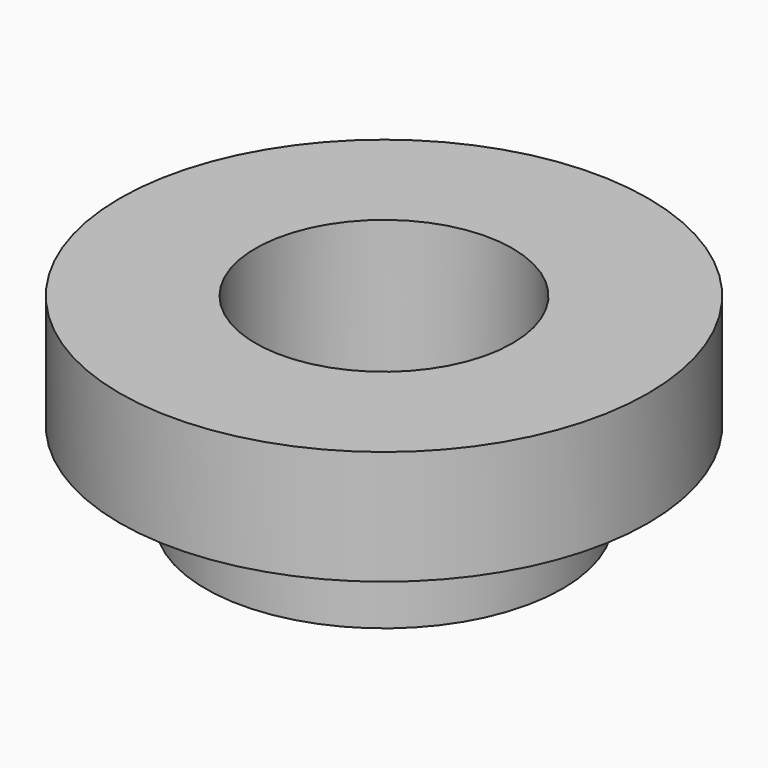
from build123d import *

# Parameters (mm, degrees)
F0_R          = 6.25
F0_R_2        = 4.5
F1_DEPTH      = 3
F1_DEPTH_BACK = 4
F0_R_3        = 9.25
F2_DEPTH      = 4


with BuildPart() as f1:
    # F0 (on Top) → F1 (new body, two sides)
    with BuildSketch(Plane.XY) as f1_sk:
        Circle(F0_R)
        Circle(F0_R_2, mode=Mode.SUBTRACT)
    extrude(amount=-F1_DEPTH)
    extrude(f1_sk.sketch, amount=F1_DEPTH_BACK)

    # F0 (on Top) → F2 (join)
    with BuildSketch(Plane.XY):
        Circle(F0_R_3)
        Circle(F0_R, mode=Mode.SUBTRACT)
    extrude(amount=F2_DEPTH)


solid = f1.part
